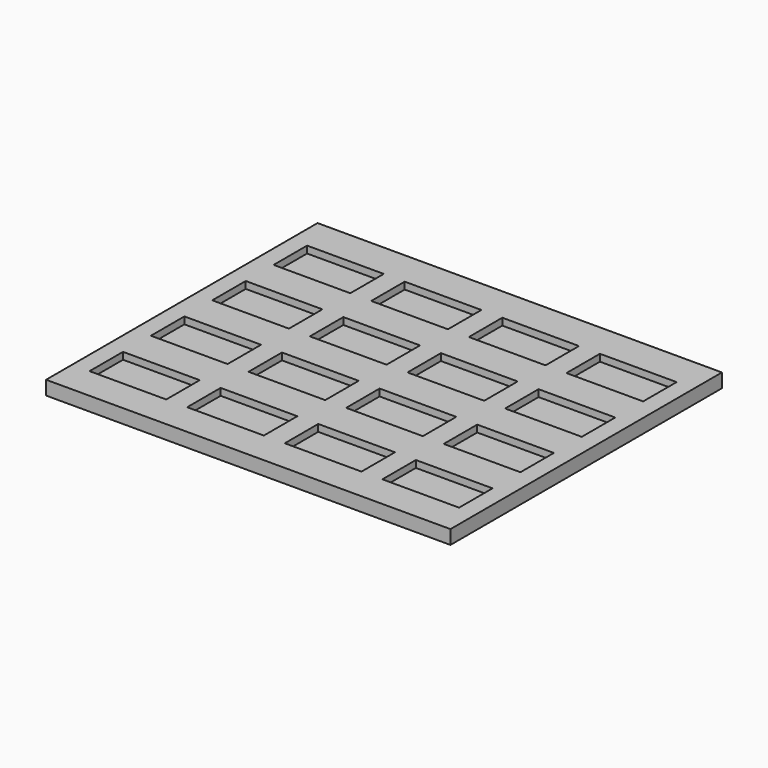
from build123d import *

# Parameters (mm, degrees)
F0_W     = 58
F0_H     = 48.66873
F0_W_2   = 11
F0_H_2   = 6
F1_DEPTH = 2
F2_DEPTH = 1


with BuildPart() as f1:
    # F0 (on Top) → F1 (new body)
    with BuildSketch(Plane.XY):
        Rectangle(F0_W, F0_H)
        with Locations((-20.998456, -16.665635)):
            Rectangle(F0_W_2, F0_H_2, mode=Mode.SUBTRACT)
        with Locations((-6.998456, -16.665635)):
            Rectangle(F0_W_2, F0_H_2, mode=Mode.SUBTRACT)
        with Locations((-20.998971, -5.665635)):
            Rectangle(F0_W_2, F0_H_2, mode=Mode.SUBTRACT)
        with Locations((-6.998971, -5.665635)):
            Rectangle(F0_W_2, F0_H_2, mode=Mode.SUBTRACT)
        with Locations((7.001544, -16.665635)):
            Rectangle(F0_W_2, F0_H_2, mode=Mode.SUBTRACT)
        with Locations((21.001544, -16.665635)):
            Rectangle(F0_W_2, F0_H_2, mode=Mode.SUBTRACT)
        with Locations((7.001029, -5.665635)):
            Rectangle(F0_W_2, F0_H_2, mode=Mode.SUBTRACT)
        with Locations((21.001029, -5.665635)):
            Rectangle(F0_W_2, F0_H_2, mode=Mode.SUBTRACT)
        with Locations((-20.999485, 5.334365)):
            Rectangle(F0_W_2, F0_H_2, mode=Mode.SUBTRACT)
        with Locations((-6.999485, 5.334365)):
            Rectangle(F0_W_2, F0_H_2, mode=Mode.SUBTRACT)
        with Locations((-21, 16.334365)):
            Rectangle(F0_W_2, F0_H_2, mode=Mode.SUBTRACT)
        with Locations((-7, 16.334365)):
            Rectangle(F0_W_2, F0_H_2, mode=Mode.SUBTRACT)
        with Locations((7.000515, 5.334365)):
            Rectangle(F0_W_2, F0_H_2, mode=Mode.SUBTRACT)
        with Locations((21.000515, 5.334365)):
            Rectangle(F0_W_2, F0_H_2, mode=Mode.SUBTRACT)
        with Locations((7, 16.334365)):
            Rectangle(F0_W_2, F0_H_2, mode=Mode.SUBTRACT)
        with Locations((21, 16.334365)):
            Rectangle(F0_W_2, F0_H_2, mode=Mode.SUBTRACT)
    extrude(amount=F1_DEPTH)

    # F0 (on Top) → F2 (join)
    with BuildSketch(Plane.XY):
        with Locations((-21, 16.334365)):
            Rectangle(F0_W_2, F0_H_2)
        with Locations((-7, 16.334365)):
            Rectangle(F0_W_2, F0_H_2)
        with Locations((7, 16.334365)):
            Rectangle(F0_W_2, F0_H_2)
        with Locations((21, 16.334365)):
            Rectangle(F0_W_2, F0_H_2)
        with Locations((-20.999485, 5.334365)):
            Rectangle(F0_W_2, F0_H_2)
        with Locations((-6.999485, 5.334365)):
            Rectangle(F0_W_2, F0_H_2)
        with Locations((7.000515, 5.334365)):
            Rectangle(F0_W_2, F0_H_2)
        with Locations((21.000515, 5.334365)):
            Rectangle(F0_W_2, F0_H_2)
        with Locations((21.001029, -5.665635)):
            Rectangle(F0_W_2, F0_H_2)
        with Locations((7.001029, -5.665635)):
            Rectangle(F0_W_2, F0_H_2)
        with Locations((-6.998971, -5.665635)):
            Rectangle(F0_W_2, F0_H_2)
        with Locations((-20.998971, -5.665635)):
            Rectangle(F0_W_2, F0_H_2)
        with Locations((-20.998456, -16.665635)):
            Rectangle(F0_W_2, F0_H_2)
        with Locations((-6.998456, -16.665635)):
            Rectangle(F0_W_2, F0_H_2)
        with Locations((7.001544, -16.665635)):
            Rectangle(F0_W_2, F0_H_2)
        with Locations((21.001544, -16.665635)):
            Rectangle(F0_W_2, F0_H_2)
    extrude(amount=F2_DEPTH)


solid = f1.part
